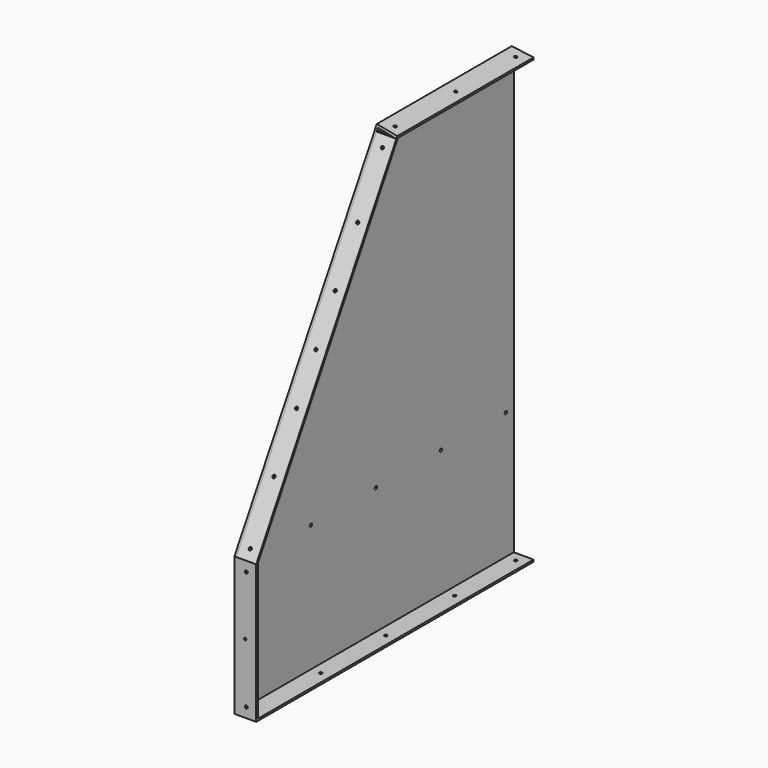
from build123d import *

# Parameters (mm, degrees)
PAD007_DEPTH         = 350
POCKET009_DEPTH      = 2.001
POCKET009_DEPTH_BACK = 20.001
PAD008_DEPTH         = 20
SKETCH023_R          = 1.5
SKETCH023_R_2        = 1.21447
POCKET010_DEPTH      = 3
SKETCH024_R          = 1.5
POCKET011_DEPTH      = 5
SKETCH025_R          = 1.5
POCKET012_DEPTH      = 5
SKETCH026_R          = 1.5
POCKET013_DEPTH      = 5
SKETCH070_R          = 1.5
POCKET046_DEPTH      = 5


with BuildPart() as part:
    # Sketch020 (on Face1 of Binder004) → Pad007 (new body)
    with BuildSketch(Plane(origin=(0, -4.1, 0), x_dir=(-1, 0, 0), z_dir=(0, 1, 0))):
        Polygon((-1160, -341.2), (-1160, 106.0068995871), (-1180, 103.0899380794), (-1180, 105.0899380794), (-1158, 108.0068995871), (-1158, -343.2), (-1160, -343.2), (-1180, -343.2), (-1180, -341.2), align=None)
    extrude(amount=PAD007_DEPTH)

    # Sketch021 (on Face3 of Pad007) → Pocket009 (cut, two sides)
    with BuildSketch(Plane.YZ.offset(1160)) as pocket009_sk:
        Polygon((-4.1, -203.2), (175.5753880751, 108.0069), (-4.1, 108.0069), align=None)
    extrude(amount=-POCKET009_DEPTH, mode=Mode.SUBTRACT)
    extrude(pocket009_sk.sketch, amount=POCKET009_DEPTH_BACK, mode=Mode.SUBTRACT)

    # Sketch022 (on Face7 of Pocket009) → Pad008 (join)
    with BuildSketch(Plane.YZ.offset(1160)):
        Polygon((-4.1, -341.2), (-2.1, -341.2), (-2.1, -203.2), (174.7363949149, 103.0899380794), (172.7363949149, 103.0899380794), (-4.1, -203.2), align=None)
    extrude(amount=PAD008_DEPTH)

    # Sketch023 (on Face1 of Binder004) → Pocket010 (cut)
    with BuildSketch(Plane(origin=(0, -4.1, 0), x_dir=(-1, 0, 0), z_dir=(0, 1, 0))):
        with Locations((-1170, -333.2)):
            Circle(SKETCH023_R)
        with Locations((-1168.78553, -273.2)):
            Circle(SKETCH023_R_2)
        with Locations((-1170, -213.2)):
            Circle(SKETCH023_R)
    extrude(amount=POCKET010_DEPTH, mode=Mode.SUBTRACT)

    # Sketch024 (on Face11 of Pocket010) → Pocket011 (cut)
    with BuildSketch(Plane(origin=(0, 84.9131338325, -49.0245698635), x_dir=(1, 0, 0), z_dir=(0, -0.8660256282, 0.4999996113))):
        with Locations((1170, -168.059563)):
            Circle(SKETCH024_R)
        with Locations((1170, -2.4571175269)):
            Circle(SKETCH024_R)
        with Locations((1170, 165.290966)):
            Circle(SKETCH024_R)
        with Locations((1170, -108.059563)):
            Circle(SKETCH024_R)
        with Locations((1170, -51.413154)):
            Circle(SKETCH024_R)
        with Locations((1170, 46.410008)):
            Circle(SKETCH024_R)
        with Locations((1170, 103.145328)):
            Circle(SKETCH024_R)
    extrude(amount=-POCKET011_DEPTH, mode=Mode.SUBTRACT)

    # Sketch025 (on Face10 of Pocket011) → Pocket012 (cut)
    with BuildSketch(Plane(origin=(34.0789471152, 0, 257.0266472675), x_dir=(0.9913242799, 0, -0.131438853), z_dir=(0.131438853, 0, 0.9913242799))):
        with Locations((1145.949749, 183.891094)):
            Circle(SKETCH025_R)
        with Locations((1145.949749, 259.895547)):
            Circle(SKETCH025_R)
        with Locations((1145.949749, 335.9)):
            Circle(SKETCH025_R)
    extrude(amount=-POCKET012_DEPTH, mode=Mode.SUBTRACT)

    # Sketch026 (on Face6 of Pocket012) → Pocket013 (cut)
    with BuildSketch(Plane.XY.offset(-341.2)):
        with Locations((1170, 335.9)):
            Circle(SKETCH026_R)
        with Locations((1170, 258.9)):
            Circle(SKETCH026_R)
        with Locations((1170, 171.9)):
            Circle(SKETCH026_R)
        with Locations((1170, 89.9)):
            Circle(SKETCH026_R)
        with Locations((1170, 7.9)):
            Circle(SKETCH026_R)
    extrude(amount=-POCKET013_DEPTH, mode=Mode.SUBTRACT)

    # Sketch070 (on Face1 of Binder020) → Pocket046 (cut)
    with BuildSketch(Plane(origin=(1156, 0, 0), x_dir=(0, -1, 0), z_dir=(-1, 0, 0))):
        with Locations((-7.917049, -213.170471)):
            Circle(SKETCH070_R)
        with Locations((-89.912786, -213.170471)):
            Circle(SKETCH070_R)
        with Locations((-171.908524, -213.170471)):
            Circle(SKETCH070_R)
        with Locations((-253.904262, -213.170471)):
            Circle(SKETCH070_R)
        with Locations((-335.9, -213.170471)):
            Circle(SKETCH070_R)
    extrude(amount=-POCKET046_DEPTH, mode=Mode.SUBTRACT)


with BuildPart() as part_1:
    # Body004 placement: moved
    add(part.part.moved(Location((-280, 4, 0))))


solid = part_1.part
